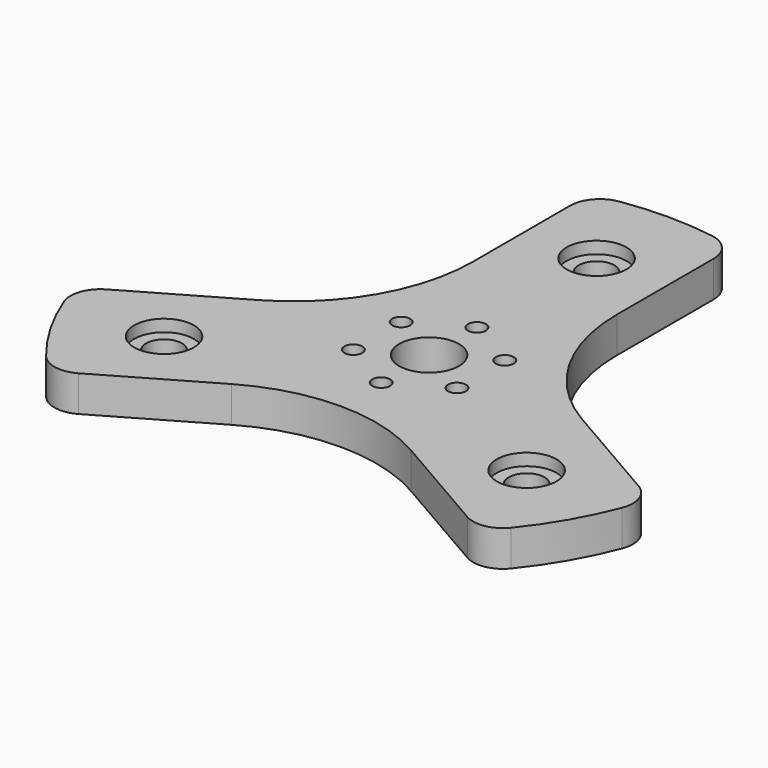
from build123d import *

# Parameters (mm, degrees)
F0_R     = 5
F0_R_2   = 1.5
F1_DEPTH = 6
F0_R_3   = 3
F2_DEPTH = 4


with BuildPart() as f1:
    # F0 (on Top) → F1 (new body)
    with BuildSketch(Plane.XY):
        with BuildLine():
            ThreePointArc((-44.496753, -11.833806), (-46.710703, -14.496996), (-46.663059, -17.959925))
            ThreePointArc((-46.663059, -17.959925), (-43.30127, -25), (-38.885281, -31.431432))
            ThreePointArc((-38.885281, -31.431432), (-35.910118, -33.204157), (-32.496753, -32.618416))
            Line((-32.496753, -32.618416), (-15, -22.51666))
            ThreePointArc((-15, -22.51666), (0, -18.497423), (15, -22.51666))
            Line((15, -22.51666), (32.496753, -32.618416))
            ThreePointArc((32.496753, -32.618416), (35.910118, -33.204157), (38.885281, -31.431432))
            ThreePointArc((38.885281, -31.431432), (43.30127, -25), (46.663059, -17.959925))
            ThreePointArc((46.663059, -17.959925), (46.710703, -14.496996), (44.496753, -11.833806))
            Line((44.496753, -11.833806), (27, -1.732051))
            ThreePointArc((27, -1.732051), (16.019238, 9.248711), (12, 24.248711))
            Line((12, 24.248711), (12, 44.452222))
            ThreePointArc((12, 44.452222), (10.800585, 47.701153), (7.777778, 49.391357))
            ThreePointArc((7.777778, 49.391357), (0, 50), (-7.777778, 49.391357))
            ThreePointArc((-7.777778, 49.391357), (-10.800585, 47.701153), (-12, 44.452222))
            Line((-12, 44.452222), (-12, 24.248711))
            ThreePointArc((-12, 24.248711), (-16.019238, 9.248711), (-27, -1.732051))
            Line((-27, -1.732051), (-44.496753, -11.833806))
        make_face()
        with Locations((-30.310889, -17.5)):
            Circle(F0_R, mode=Mode.SUBTRACT)
        with Locations((-8.660254, -5)):
            Circle(F0_R_2, mode=Mode.SUBTRACT)
        with Locations((-8.660254, 5)):
            Circle(F0_R_2, mode=Mode.SUBTRACT)
        with Locations((30.310889, -17.5)):
            Circle(F0_R, mode=Mode.SUBTRACT)
        with Locations((0, -10)):
            Circle(F0_R_2, mode=Mode.SUBTRACT)
        with Locations((8.660254, -5)):
            Circle(F0_R_2, mode=Mode.SUBTRACT)
        Circle(F0_R, mode=Mode.SUBTRACT)
        with Locations((8.660254, 5)):
            Circle(F0_R_2, mode=Mode.SUBTRACT)
        with Locations((0, 10)):
            Circle(F0_R_2, mode=Mode.SUBTRACT)
        with Locations((0, 35)):
            Circle(F0_R, mode=Mode.SUBTRACT)
    extrude(amount=F1_DEPTH)

    # F0 (on Top) → F2 (join)
    with BuildSketch(Plane.XY):
        with Locations((-30.310889, -17.5)):
            Circle(F0_R)
        with Locations((-30.310889, -17.5)):
            Circle(F0_R_3, mode=Mode.SUBTRACT)
        with Locations((0, 35)):
            Circle(F0_R)
        with Locations((0, 35)):
            Circle(F0_R_3, mode=Mode.SUBTRACT)
        with Locations((30.310889, -17.5)):
            Circle(F0_R)
        with Locations((30.310889, -17.5)):
            Circle(F0_R_3, mode=Mode.SUBTRACT)
    extrude(amount=F2_DEPTH)


solid = f1.part
